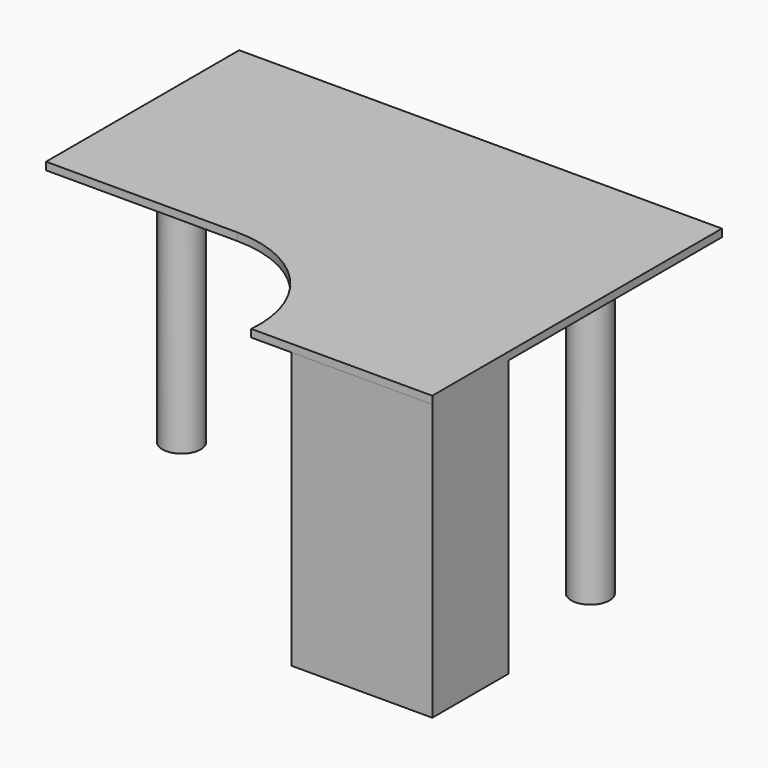
from build123d import *

# Parameters (mm, degrees)
F1_DEPTH = 25.4
F2_W     = 466.531444
F2_H     = 316.149631
F3_DEPTH = 914.4


with BuildPart() as f1:
    # F0 (on Top) → F1 (new body)
    with BuildSketch(Plane.XY):
        with BuildLine():
            Line((-632.859834, 800.1), (-632.859834, 0))
            Line((-632.859834, 0), (0, 0))
            ThreePointArc((0, 0), (271.534392, -119.326906), (367.265166, -400.05))
            Line((367.265166, -400.05), (967.340166, -400.05))
            Line((967.340166, -400.05), (967.340166, 800.1))
            Line((967.340166, 800.1), (-632.859834, 800.1))
        make_face()
    extrude(amount=F1_DEPTH)

    # F2 (on face) → F3 (join)
    with BuildSketch(Plane(origin=(0, 0, 0), x_dir=(1, 0, 0), z_dir=(0, 0, -1))):
        with BuildLine():
            ThreePointArc((-567.277385, -400.05), (-503.777385, -463.55), (-440.277385, -400.05))
            Line((-440.277385, -400.05), (-567.277385, -400.05))
        make_face()
        with BuildLine():
            Line((-567.277385, -400.05), (-440.277385, -400.05))
            ThreePointArc((-440.277385, -400.05), (-503.777385, -336.55), (-567.277385, -400.05))
        make_face()
        with BuildLine():
            ThreePointArc((787.914442, -400.05), (851.414442, -463.55), (914.914442, -400.05))
            Line((914.914442, -400.05), (787.914442, -400.05))
        make_face()
        with BuildLine():
            Line((787.914442, -400.05), (914.914442, -400.05))
            ThreePointArc((914.914442, -400.05), (851.414442, -336.55), (787.914442, -400.05))
        make_face()
        with Locations((734.074444, 241.975184)):
            Rectangle(F2_W, F2_H)
    extrude(amount=F3_DEPTH)


solid = f1.part
